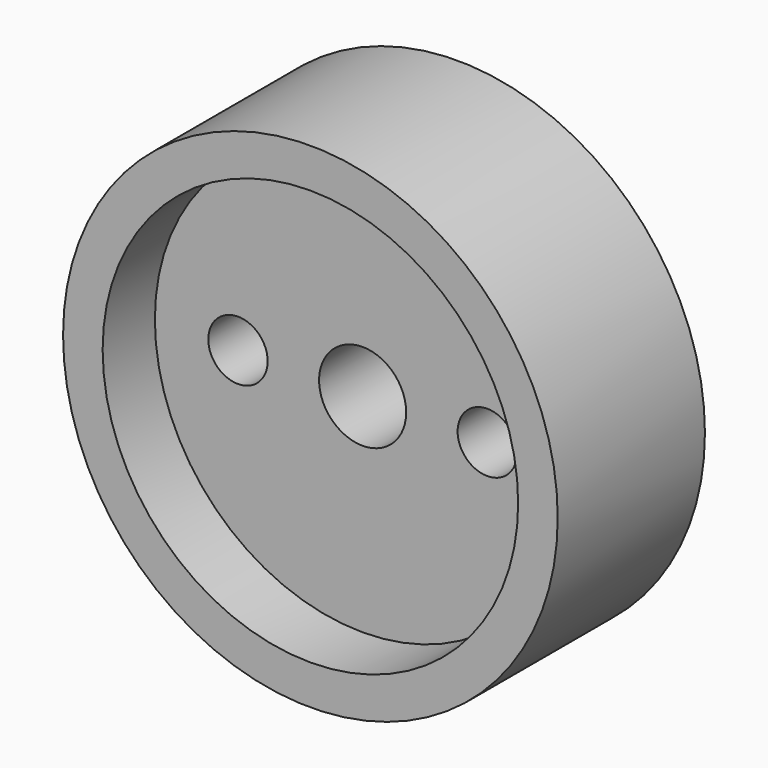
from build123d import *

# Parameters (mm, degrees)
F0_R     = 12.5
F0_R_2   = 10.5
F1_DEPTH = 9.3
F0_R_3   = 1.5
F0_R_4   = 2.2
F2_DEPTH = 6
F3_R     = 1.5
F4_DEPTH = 3


with BuildPart() as f1:
    # F0 (on Front) → F1 (new body)
    with BuildSketch(Plane.XZ):
        Circle(F0_R)
        Circle(F0_R_2, mode=Mode.SUBTRACT)
    extrude(amount=F1_DEPTH)

    # F0 (on Front) → F2 (join)
    with BuildSketch(Plane.XZ):
        Circle(F0_R_2)
        with Locations((-6.3, 0)):
            Circle(F0_R_3, mode=Mode.SUBTRACT)
        Circle(F0_R_4, mode=Mode.SUBTRACT)
        with Locations((6.3, 0)):
            Circle(F0_R_3, mode=Mode.SUBTRACT)
    extrude(amount=F2_DEPTH)

    # F3 (on face) → F4 (cut)
    with BuildSketch(Plane(origin=(0, 0, 0), x_dir=(-1, 0, 0), z_dir=(0, 1, 0))):
        Polygon((-4.63207, -2.847532), (-3, 0.020704), (-4.66793, 2.868236), (-7.96793, 2.847532), (-9.6, -0.020704), (-7.93207, -2.868236), align=None)
        with Locations((-6.3, 0)):
            Circle(F3_R, mode=Mode.SUBTRACT)
        Polygon((7.93207, -2.868236), (9.6, -0.020704), (7.96793, 2.847532), (4.66793, 2.868236), (3, 0.020704), (4.63207, -2.847532), align=None)
        with Locations((6.3, 0)):
            Circle(F3_R, mode=Mode.SUBTRACT)
    extrude(amount=-F4_DEPTH, mode=Mode.SUBTRACT)


solid = f1.part
